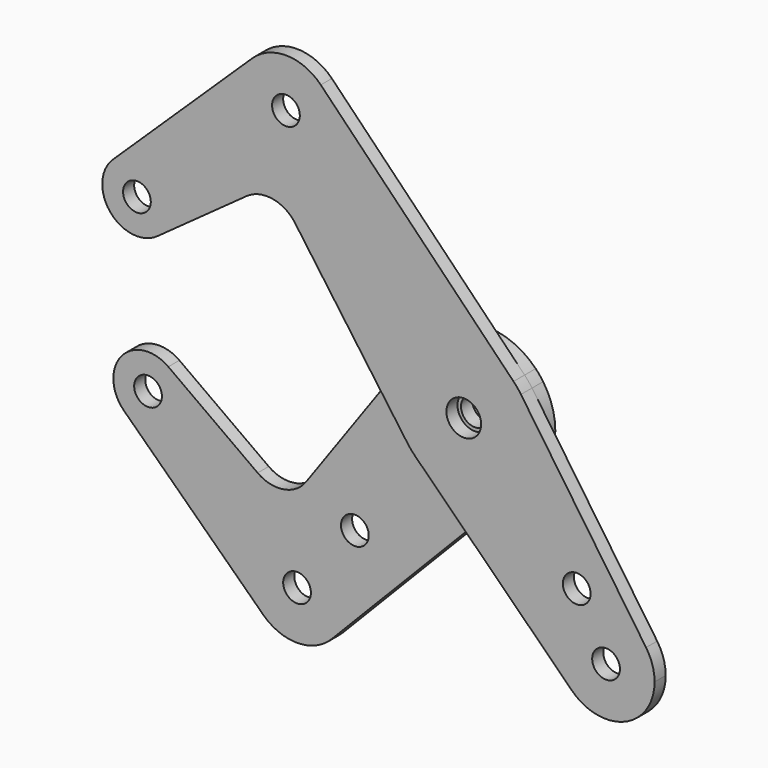
from build123d import *

# Parameters (mm, degrees)
F0_R     = 3.175
F0_R_2   = 3.9751
F1_DEPTH = 3.175
F2_DEPTH = 3.175


with BuildPart() as f1:
    # F0 (on Front) → F1 (new body)
    with BuildSketch(Plane.XZ):
        with BuildLine():
            ThreePointArc((-80.3346294921, 25.9479182042), (-71.7203948705, 27.5410809104), (-66.8861771998, 20.2353608887))
            ThreePointArc((-66.8861771998, 20.2353608887), (-67.7582810751, 16.6181680751), (-70.1829542332, 13.7958270083))
            Line((-70.1829542332, 13.7958270083), (-49.7343409118, 28.5323516137))
            ThreePointArc((-49.7343409118, 28.5323516137), (-43.7981572808, 29.9276814353), (-38.6197518354, 26.7075357159))
            Line((-38.6197518354, 26.7075357159), (-19.5176026373, 0))
            Line((-19.5176026373, 0), (-12.9122223504, 9.2352660478))
            ThreePointArc((-12.9122223504, 9.2352660478), (-1.190625, 15.8302885984), (11.3855715641, 11.0627476316))
            Line((11.3855715641, 11.0627476316), (-32.7407875412, 56.4767655761))
            ThreePointArc((-32.7407875412, 56.4767655761), (-30.4137664687, 52.9114868375), (-29.598187636, 48.732842234))
            ThreePointArc((-29.598187636, 48.732842234), (-45.055282897, 38.5048342037), (-48.4260208452, 56.7304224756))
            Line((-48.4260208452, 56.7304224756), (-80.3346294921, 25.9479182042))
        make_face()
        with BuildLine():
            ThreePointArc((11.3855715641, -11.0627476316), (0.1493607821, -15.87429735), (-11.1753961572, -11.2750230922))
            Line((-11.1753961572, -11.2750230922), (0.2122859525, -22.5620828034))
            Line((0.2122859525, -22.5620828034), (11.3855715641, -11.0627476316))
        make_face()
        with BuildLine():
            Line((41.7271468569, -32.6928040084), (13.0837096401, 8.9906711125))
            ThreePointArc((13.0837096401, 8.9906711125), (15.1611265336, 4.7070019367), (15.875, 0))
            ThreePointArc((15.875, 0), (14.709887382, -5.9694922908), (11.3855715641, -11.0627476316))
            Line((11.3855715641, -11.0627476316), (0.2122859525, -22.5620828034))
            Line((0.2122859525, -22.5620828034), (24.7457727988, -46.8787899517))
            ThreePointArc((24.7457727988, -46.8787899517), (25.4441797725, -30.4580263962), (41.7271468569, -32.6928040084))
        make_face()
        with Locations((25.8534296399, -25.9955964712)):
            Circle(F0_R, mode=Mode.SUBTRACT)
        with BuildLine():
            ThreePointArc((43.6810501088, -38.9862737872), (43.1813386824, -35.6913724315), (41.7271468569, -32.6928040084))
            ThreePointArc((41.7271468569, -32.6928040084), (25.4441797725, -30.4580263962), (24.7457727988, -46.8787899517))
            ThreePointArc((24.7457727988, -46.8787899517), (36.8438888903, -49.2434241982), (43.6810501088, -38.9862737872))
        make_face()
        with Locations((32.5685501088, -38.9862737872)):
            Circle(F0_R, mode=Mode.SUBTRACT)
        with BuildLine():
            ThreePointArc((-32.7407875412, 56.4767655761), (-40.5310031055, 59.8438894267), (-48.4260208452, 56.7304224756))
            ThreePointArc((-48.4260208452, 56.7304224756), (-45.055282897, 38.5048342037), (-29.598187636, 48.732842234))
            ThreePointArc((-29.598187636, 48.732842234), (-30.4137664687, 52.9114868375), (-32.7407875412, 56.4767655761))
        make_face()
        with Locations((-40.710687636, 48.732842234)):
            Circle(F0_R, mode=Mode.SUBTRACT)
        with BuildLine():
            ThreePointArc((-70.1829542332, 13.7958270083), (-67.7582810751, 16.6181680751), (-66.8861771998, 20.2353608887))
            ThreePointArc((-66.8861771998, 20.2353608887), (-71.7203948705, 27.5410809104), (-80.3346294921, 25.9479182042))
            ThreePointArc((-80.3346294921, 25.9479182042), (-80.9152824791, 15.1465249342), (-70.1829542332, 13.7958270083))
        make_face()
        with Locations((-74.8236771998, 20.2353608887)):
            Circle(F0_R, mode=Mode.SUBTRACT)
        with BuildLine():
            ThreePointArc((13.0837096401, 8.9906711125), (12.27842848, 10.0625950461), (11.3855715641, 11.0627476316))
            ThreePointArc((11.3855715641, 11.0627476316), (-1.190625, 15.8302885984), (-12.9122223504, 9.2352660478))
            ThreePointArc((-12.9122223504, 9.2352660478), (-15.875, 0), (-12.9122223504, -9.2352660478))
            ThreePointArc((-12.9122223504, -9.2352660478), (-12.0869141447, -10.2918478155), (-11.1753961572, -11.2750230922))
            ThreePointArc((-11.1753961572, -11.2750230922), (0.1493607821, -15.87429735), (11.3855715641, -11.0627476316))
            ThreePointArc((11.3855715641, -11.0627476316), (14.709887382, -5.9694922908), (15.875, 0))
            ThreePointArc((15.875, 0), (15.1611265336, 4.7070019367), (13.0837096401, 8.9906711125))
        make_face()
        Circle(F0_R_2, mode=Mode.SUBTRACT)
        with BuildLine():
            Line((-12.9122223504, 9.2352660478), (-19.5176026373, 0))
            Line((-19.5176026373, 0), (-12.9122223504, -9.2352660478))
            ThreePointArc((-12.9122223504, -9.2352660478), (-15.875, 0), (-12.9122223504, 9.2352660478))
        make_face()
    extrude(amount=F1_DEPTH)


with BuildPart() as f2:
    # F0 (on Front) → F2 (new body)
    with BuildSketch(Plane.XZ):
        with BuildLine():
            ThreePointArc((-66.8861771998, -20.2353608887), (-67.7582810751, -16.6181680751), (-70.1829542332, -13.7958270083))
            ThreePointArc((-70.1829542332, -13.7958270083), (-80.9152824791, -15.1465249342), (-80.3346294921, -25.9479182042))
            ThreePointArc((-80.3346294921, -25.9479182042), (-71.7203948705, -27.5410809104), (-66.8861771998, -20.2353608887))
        make_face()
        with Locations((-74.8236771998, -20.2353608887)):
            Circle(F0_R, mode=Mode.SUBTRACT)
        with BuildLine():
            Line((-12.9122223504, -9.2352660478), (-19.5176026373, 0))
            Line((-19.5176026373, 0), (-38.6197518354, -26.7075357159))
            ThreePointArc((-38.6197518354, -26.7075357159), (-43.7981572808, -29.9276814353), (-49.7343409118, -28.5323516137))
            Line((-49.7343409118, -28.5323516137), (-70.1829542332, -13.7958270083))
            ThreePointArc((-70.1829542332, -13.7958270083), (-67.7582810751, -16.6181680751), (-66.8861771998, -20.2353608887))
            ThreePointArc((-66.8861771998, -20.2353608887), (-71.7203948705, -27.5410809104), (-80.3346294921, -25.9479182042))
            Line((-80.3346294921, -25.9479182042), (-48.4260208452, -56.7304224756))
            ThreePointArc((-48.4260208452, -56.7304224756), (-45.055282897, -38.5048342037), (-29.598187636, -48.732842234))
            ThreePointArc((-29.598187636, -48.732842234), (-30.4137664687, -52.9114868375), (-32.7407875412, -56.4767655761))
            Line((-32.7407875412, -56.4767655761), (0.2122859525, -22.5620828034))
            Line((0.2122859525, -22.5620828034), (-11.1753961572, -11.2750230922))
            ThreePointArc((-11.1753961572, -11.2750230922), (-12.0869141447, -10.2918478155), (-12.9122223504, -9.2352660478))
        make_face()
        with Locations((-27.4715720168, -32.8849219395)):
            Circle(F0_R, mode=Mode.SUBTRACT)
        with BuildLine():
            ThreePointArc((-48.4260208452, -56.7304224756), (-40.5310031055, -59.8438894267), (-32.7407875412, -56.4767655761))
            ThreePointArc((-32.7407875412, -56.4767655761), (-30.4137664687, -52.9114868375), (-29.598187636, -48.732842234))
            ThreePointArc((-29.598187636, -48.732842234), (-45.055282897, -38.5048342037), (-48.4260208452, -56.7304224756))
        make_face()
        with Locations((-40.710687636, -48.732842234)):
            Circle(F0_R, mode=Mode.SUBTRACT)
        with BuildLine():
            Line((-12.9122223504, 9.2352660478), (-19.5176026373, 0))
            Line((-19.5176026373, 0), (-12.9122223504, -9.2352660478))
            ThreePointArc((-12.9122223504, -9.2352660478), (-15.875, 0), (-12.9122223504, 9.2352660478))
        make_face()
        with BuildLine():
            ThreePointArc((11.3855715641, -11.0627476316), (0.1493607821, -15.87429735), (-11.1753961572, -11.2750230922))
            Line((-11.1753961572, -11.2750230922), (0.2122859525, -22.5620828034))
            Line((0.2122859525, -22.5620828034), (11.3855715641, -11.0627476316))
        make_face()
        with BuildLine():
            ThreePointArc((13.0837096401, 8.9906711125), (12.27842848, 10.0625950461), (11.3855715641, 11.0627476316))
            ThreePointArc((11.3855715641, 11.0627476316), (-1.190625, 15.8302885984), (-12.9122223504, 9.2352660478))
            ThreePointArc((-12.9122223504, 9.2352660478), (-15.875, 0), (-12.9122223504, -9.2352660478))
            ThreePointArc((-12.9122223504, -9.2352660478), (-12.0869141447, -10.2918478155), (-11.1753961572, -11.2750230922))
            ThreePointArc((-11.1753961572, -11.2750230922), (0.1493607821, -15.87429735), (11.3855715641, -11.0627476316))
            ThreePointArc((11.3855715641, -11.0627476316), (14.709887382, -5.9694922908), (15.875, 0))
            ThreePointArc((15.875, 0), (15.1611265336, 4.7070019367), (13.0837096401, 8.9906711125))
        make_face()
        Circle(F0_R_2, mode=Mode.SUBTRACT)
        Circle(F0_R_2)
        Circle(F0_R, mode=Mode.SUBTRACT)
    extrude(amount=-F2_DEPTH)


solid = Compound([f1.part, f2.part])
